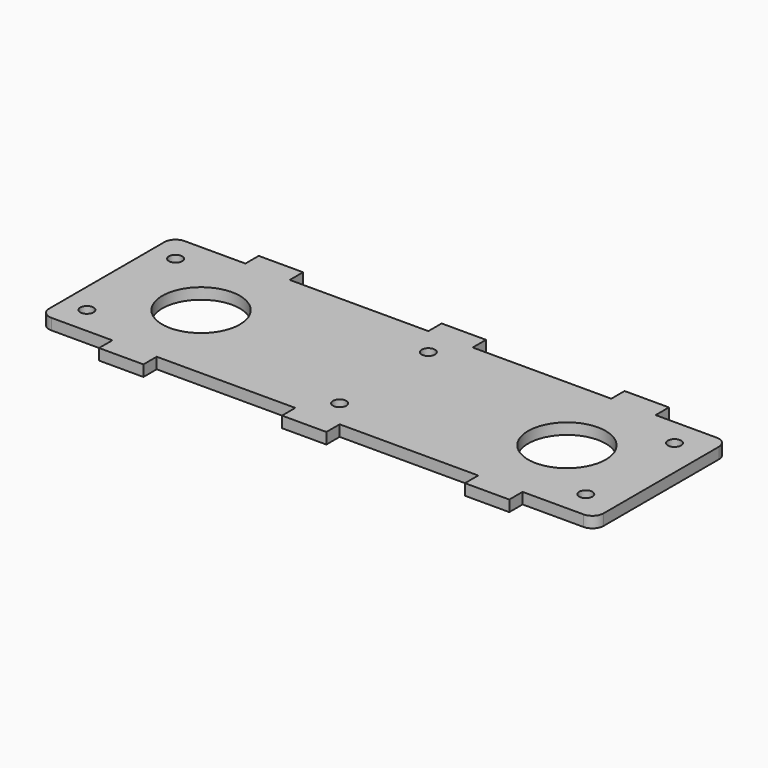
from build123d import *

# Parameters (mm, degrees)
F0_R     = 6
F0_R_2   = 35
F0_W     = 40
F0_H     = 15
F1_DEPTH = 10


with BuildPart() as f1:
    # F0 (on Top) → F1 (new body)
    with BuildSketch(Plane.XY):
        with BuildLine():
            ThreePointArc((0, 10), (2.928932, 2.928932), (10, 0))
            Line((10, 0), (65, 0))
            Line((65, 0), (105, 0))
            Line((105, 0), (230, 0))
            Line((230, 0), (270, 0))
            Line((270, 0), (395, 0))
            Line((395, 0), (435, 0))
            Line((435, 0), (490, 0))
            ThreePointArc((490, 0), (497.071068, 2.928932), (500, 10))
            Line((500, 10), (500, 140))
            ThreePointArc((500, 140), (497.071068, 147.071068), (490, 150))
            Line((490, 150), (435, 150))
            Line((435, 150), (395, 150))
            Line((395, 150), (270, 150))
            Line((270, 150), (230, 150))
            Line((230, 150), (105, 150))
            Line((105, 150), (65, 150))
            Line((65, 150), (10, 150))
            ThreePointArc((10, 150), (2.928932, 147.071068), (0, 140))
            Line((0, 140), (0, 10))
        make_face()
        with Locations((22, 25)):
            Circle(F0_R, mode=Mode.SUBTRACT)
        with Locations((250, 25)):
            Circle(F0_R, mode=Mode.SUBTRACT)
        with Locations((472, 25)):
            Circle(F0_R, mode=Mode.SUBTRACT)
        with Locations((85, 75)):
            Circle(F0_R_2, mode=Mode.SUBTRACT)
        with Locations((22, 125)):
            Circle(F0_R, mode=Mode.SUBTRACT)
        with Locations((415, 75)):
            Circle(F0_R_2, mode=Mode.SUBTRACT)
        with Locations((250, 125)):
            Circle(F0_R, mode=Mode.SUBTRACT)
        with Locations((472, 125)):
            Circle(F0_R, mode=Mode.SUBTRACT)
        with Locations((85, -7.5)):
            Rectangle(F0_W, F0_H)
        with Locations((250, -7.5)):
            Rectangle(F0_W, F0_H)
        with Locations((85, 157.5)):
            Rectangle(F0_W, F0_H)
        with Locations((415, -7.5)):
            Rectangle(F0_W, F0_H)
        with Locations((250, 157.5)):
            Rectangle(F0_W, F0_H)
        with Locations((415, 157.5)):
            Rectangle(F0_W, F0_H)
    extrude(amount=F1_DEPTH)


solid = f1.part
